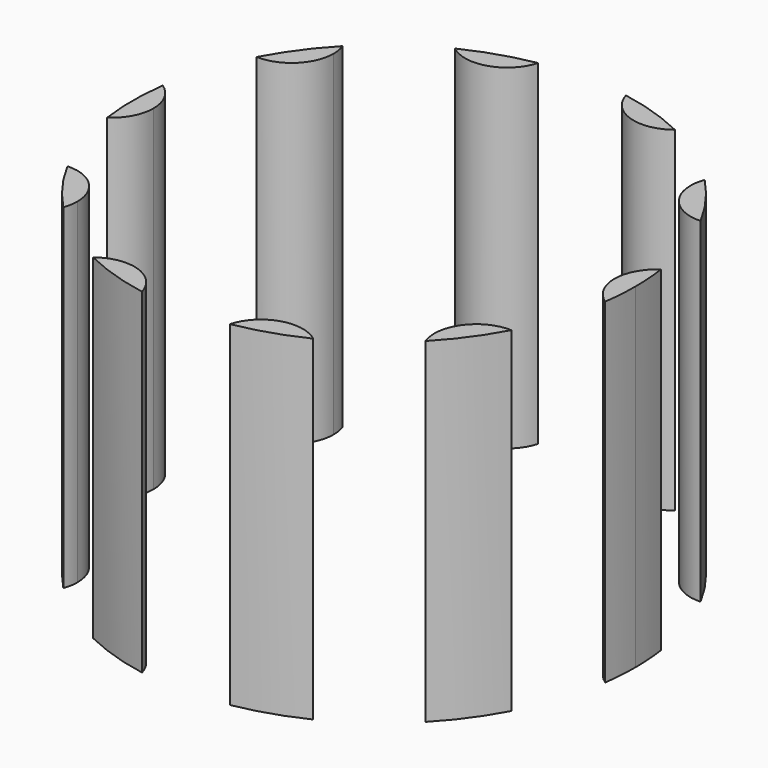
from build123d import *

# Parameters (mm, degrees)
F1_DEPTH = 50.8


with BuildPart() as f1:
    # F0 (on Top) → F1 (new body)
    with BuildSketch(Plane.XY):
        with BuildLine():
            ThreePointArc((-19.3398569951, 33.3916111417), (-13.4591034015, 32.3491903927), (-9.3141933475, 36.6491467286))
            ThreePointArc((-9.3141933475, 36.6491467286), (-14.4402323586, 35.368794832), (-19.3398569951, 33.3916111417))
        make_face()
    extrude(amount=F1_DEPTH)


with BuildPart() as f1b:
    # F0 (on Top) → F1, piece 2 (new body)
    with BuildSketch(Plane.XY):
        with BuildLine():
            ThreePointArc((-29.7088613158, 23.3943778495), (-29.8063319718, 24.5026994647), (-30.0957516474, 25.5769962501))
            ThreePointArc((-30.0957516474, 25.5769962501), (-33.4902323586, 21.5281596735), (-36.2919525414, 17.048657364))
            ThreePointArc((-36.2919525414, 17.048657364), (-31.6519139189, 18.8225822896), (-29.7088613158, 23.3943778495))
        make_face()
    extrude(amount=F1_DEPTH)


with BuildPart() as f1c:
    # F0 (on Top) → F1, piece 3 (new body)
    with BuildSketch(Plane.XY):
        with BuildLine():
            ThreePointArc((-37.591684873, -0.8664584389), (-38.3376663114, 2.1197558806), (-40.4003387191, 4.4043448603))
            ThreePointArc((-40.4003387191, 4.4043448603), (-40.766684873, -0.8664584389), (-40.4003387191, -6.1372617381))
            ThreePointArc((-40.4003387191, -6.1372617381), (-38.3376663114, -3.8526727583), (-37.591684873, -0.8664584389))
        make_face()
    extrude(amount=F1_DEPTH)


with BuildPart() as f1d:
    # F0 (on Top) → F1, piece 4 (new body)
    with BuildSketch(Plane.XY):
        with BuildLine():
            ThreePointArc((3.9808236016, 36.6491467286), (8.1257336556, 32.3491903927), (14.0064872492, 33.3916111417))
            ThreePointArc((14.0064872492, 33.3916111417), (9.1068626127, 35.368794832), (3.9808236016, 36.6491467286))
        make_face()
    extrude(amount=F1_DEPTH)


with BuildPart() as f1e:
    # F0 (on Top) → F1, piece 5 (new body)
    with BuildSketch(Plane.XY):
        with BuildLine():
            ThreePointArc((24.7623819015, 25.5769962501), (25.5882336556, 19.6619414974), (30.9585827954, 17.048657364))
            ThreePointArc((30.9585827954, 17.048657364), (28.1568626127, 21.5281596735), (24.7623819014, 25.5769962501))
        make_face()
    extrude(amount=F1_DEPTH)


with BuildPart() as f1f:
    # F0 (on Top) → F1, piece 6 (new body)
    with BuildSketch(Plane.XY):
        with BuildLine():
            ThreePointArc((35.0669689732, -6.1372617381), (35.3416182432, -3.5082181234), (35.433315127, -0.8664584389))
            ThreePointArc((35.433315127, -0.8664584389), (35.3416182432, 1.7753012457), (35.0669689732, 4.4043448603))
            ThreePointArc((35.0669689732, 4.4043448603), (32.258315127, -0.8664584389), (35.0669689732, -6.1372617381))
        make_face()
    extrude(amount=F1_DEPTH)


with BuildPart() as f1g:
    # F0 (on Top) → F1, piece 7 (new body)
    with BuildSketch(Plane.XY):
        with BuildLine():
            ThreePointArc((24.7623819014, -27.3099131278), (28.1568626127, -23.2610765512), (30.9585827954, -18.7815742417))
            ThreePointArc((30.9585827954, -18.7815742417), (25.5882336556, -21.3948583752), (24.7623819015, -27.3099131278))
        make_face()
    extrude(amount=F1_DEPTH)


with BuildPart() as f1h:
    # F0 (on Top) → F1, piece 8 (new body)
    with BuildSketch(Plane.XY):
        with BuildLine():
            ThreePointArc((3.9808236016, -38.3820636063), (9.1068626127, -37.1017117097), (14.0064872492, -35.1245280194))
            ThreePointArc((14.0064872492, -35.1245280194), (8.1257336556, -34.0821072705), (3.9808236016, -38.3820636063))
        make_face()
    extrude(amount=F1_DEPTH)


with BuildPart() as f1i:
    # F0 (on Top) → F1, piece 9 (new body)
    with BuildSketch(Plane.XY):
        with BuildLine():
            ThreePointArc((-19.3398569951, -35.1245280194), (-14.4402323586, -37.1017117097), (-9.3141933475, -38.3820636063))
            ThreePointArc((-9.3141933475, -38.3820636063), (-13.4591034015, -34.0821072705), (-19.3398569951, -35.1245280194))
        make_face()
    extrude(amount=F1_DEPTH)


with BuildPart() as f1j:
    # F0 (on Top) → F1, piece 10 (new body)
    with BuildSketch(Plane.XY):
        with BuildLine():
            ThreePointArc((-36.2919525414, -18.7815742417), (-33.4902323586, -23.2610765512), (-30.0957516474, -27.3099131278))
            ThreePointArc((-30.0957516474, -27.3099131278), (-29.8063319718, -26.2356163425), (-29.7088613158, -25.1272947272))
            ThreePointArc((-29.7088613158, -25.1272947272), (-31.6519139189, -20.5554991674), (-36.2919525414, -18.7815742417))
        make_face()
    extrude(amount=F1_DEPTH)


solid = Compound([f1.part, f1b.part, f1c.part, f1d.part, f1e.part, f1f.part, f1g.part, f1h.part, f1i.part, f1j.part])
